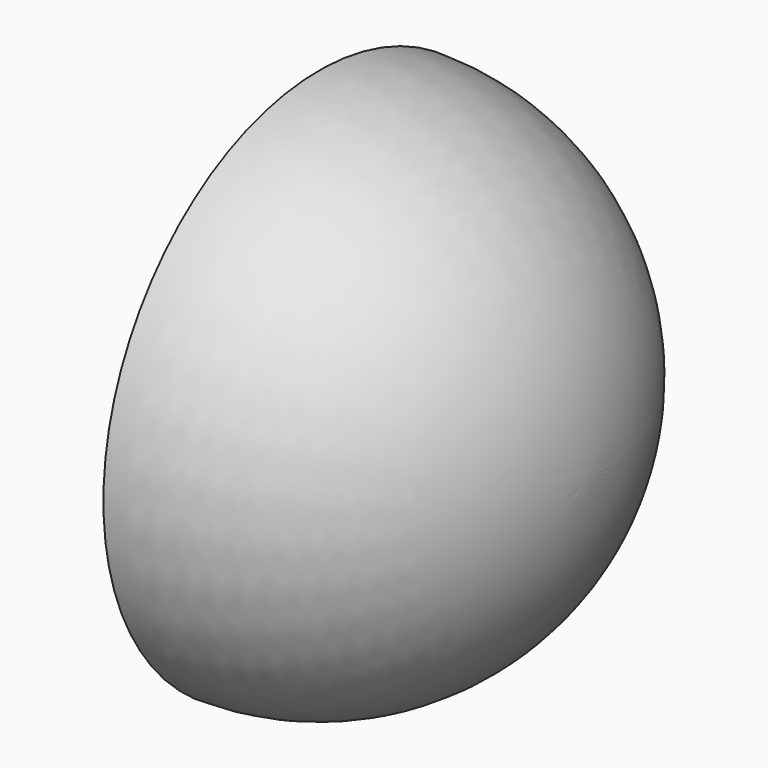
from build123d import *

# Parameters (mm, degrees)
F2_R     = 19.676471
F2_R_2   = 18.5
F3_DEPTH = 2.5


with BuildPart() as f1:
    # F0 (on Top) → F1 (revolve)
    with BuildSketch(Plane.XY):
        with BuildLine():
            Line((18, 0), (20, 0))
            ThreePointArc((20, 0), (14.142136, 14.142136), (0, 20))
            Line((0, 20), (0, 18))
            ThreePointArc((0, 18), (12.727922, 12.727922), (18, 0))
        make_face()
    revolve(axis=Axis((-0.300325, 0, 0), (1, 0, 0)))

    # F2 (on Right) → F3 (cut)
    with BuildSketch(Plane.YZ):
        Circle(F2_R)
        Circle(F2_R_2, mode=Mode.SUBTRACT)
    extrude(amount=F3_DEPTH, mode=Mode.SUBTRACT)


solid = f1.part
